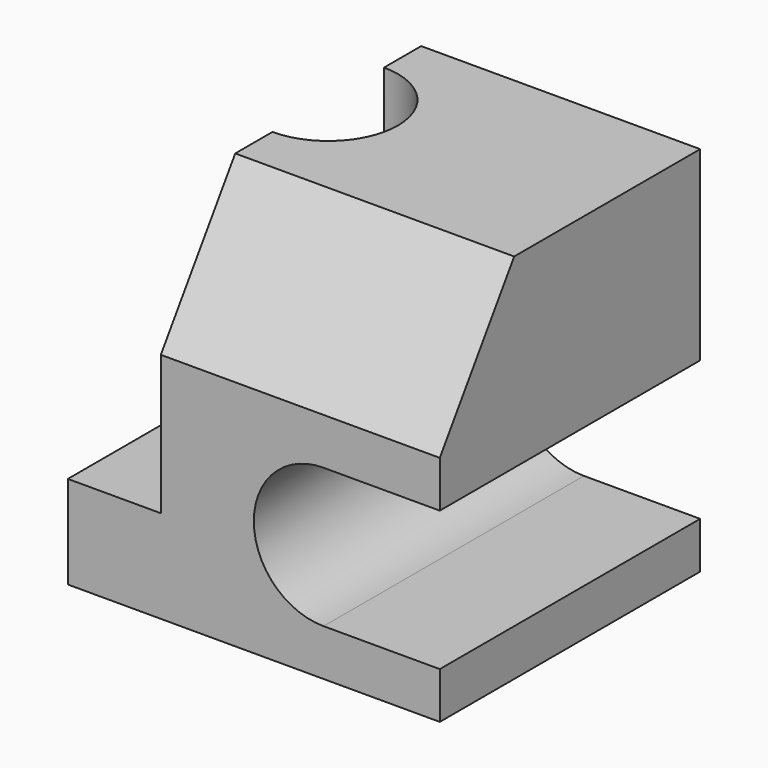
from build123d import *

# Parameters (mm, degrees)
F1_DEPTH = 35
F3_DEPTH = 70
F4_R     = 15
F5_DEPTH = 80.001
F7_DEPTH = 60.001


with BuildPart() as f1:
    # F0 (on Front) → F1 (new body, symmetric)
    with BuildSketch(Plane.XZ):
        Polygon((0, 20), (0, 0), (80, 0), (80, 80), (20, 80), (20, 20), align=None)
    extrude(amount=F1_DEPTH, both=True)

    # F2 (on face) → F3 (cut, through all)
    with BuildSketch(Plane.XZ.offset(35)):
        with BuildLine():
            Line((80, 40), (55, 40))
            ThreePointArc((55, 40), (40, 25), (55, 10))
            Line((55, 10), (80, 10))
            Line((80, 10), (80, 40))
        make_face()
    extrude(amount=-F3_DEPTH, mode=Mode.SUBTRACT)

    # F4 (on face) → F5 (cut, through all)
    with BuildSketch(Plane.XY.offset(80)):
        with Locations((20, 10)):
            Circle(F4_R)
    extrude(amount=-F5_DEPTH, mode=Mode.SUBTRACT)

    # F6 (on face) → F7 (cut, through all)
    with BuildSketch(Plane(origin=(20, 0, 0), x_dir=(0, -1, 0), z_dir=(-1, 0, 0))):
        Polygon((35, 80), (15, 80), (35, 50), align=None)
    extrude(amount=-F7_DEPTH, mode=Mode.SUBTRACT)


solid = f1.part
